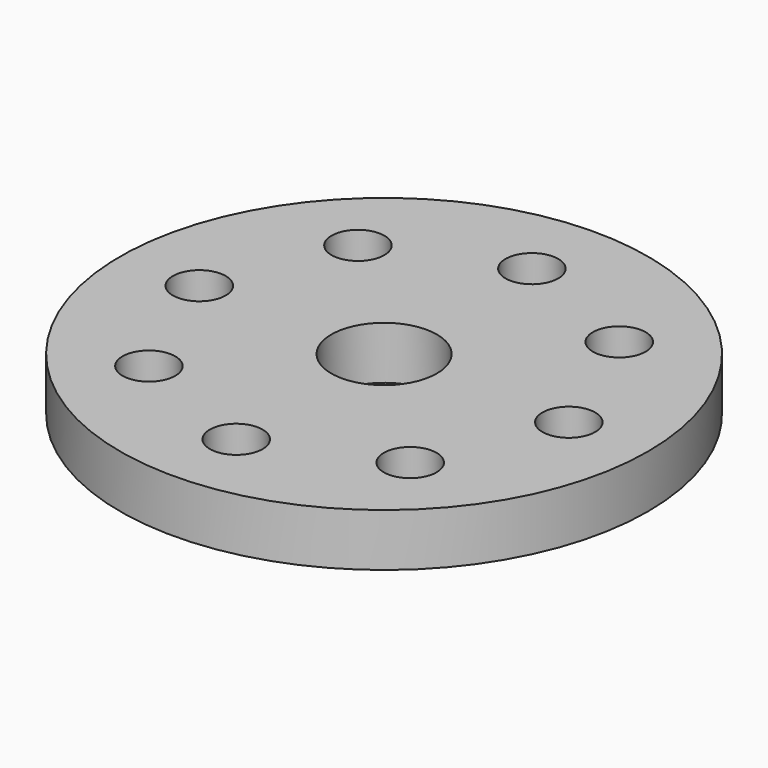
from build123d import *

# Parameters (mm, degrees)
F0_R     = 63.5
F0_R_2   = 6.35
F0_R_3   = 12.7
F1_DEPTH = 12.7


with BuildPart() as f1:
    # F0 (on Top) → F1 (new body)
    with BuildSketch(Plane.XY):
        Circle(F0_R)
        with Locations((-31.430896, -31.430896)):
            Circle(F0_R_2, mode=Mode.SUBTRACT)
        with Locations((0, -44.45)):
            Circle(F0_R_2, mode=Mode.SUBTRACT)
        with Locations((31.430896, -31.430896)):
            Circle(F0_R_2, mode=Mode.SUBTRACT)
        with Locations((-44.45, 0)):
            Circle(F0_R_2, mode=Mode.SUBTRACT)
        with Locations((-31.430896, 31.430896)):
            Circle(F0_R_2, mode=Mode.SUBTRACT)
        Circle(F0_R_3, mode=Mode.SUBTRACT)
        with Locations((31.430896, 31.430896)):
            Circle(F0_R_2, mode=Mode.SUBTRACT)
        with Locations((44.45, 0)):
            Circle(F0_R_2, mode=Mode.SUBTRACT)
        with Locations((0, 44.45)):
            Circle(F0_R_2, mode=Mode.SUBTRACT)
    extrude(amount=-F1_DEPTH)


solid = f1.part
